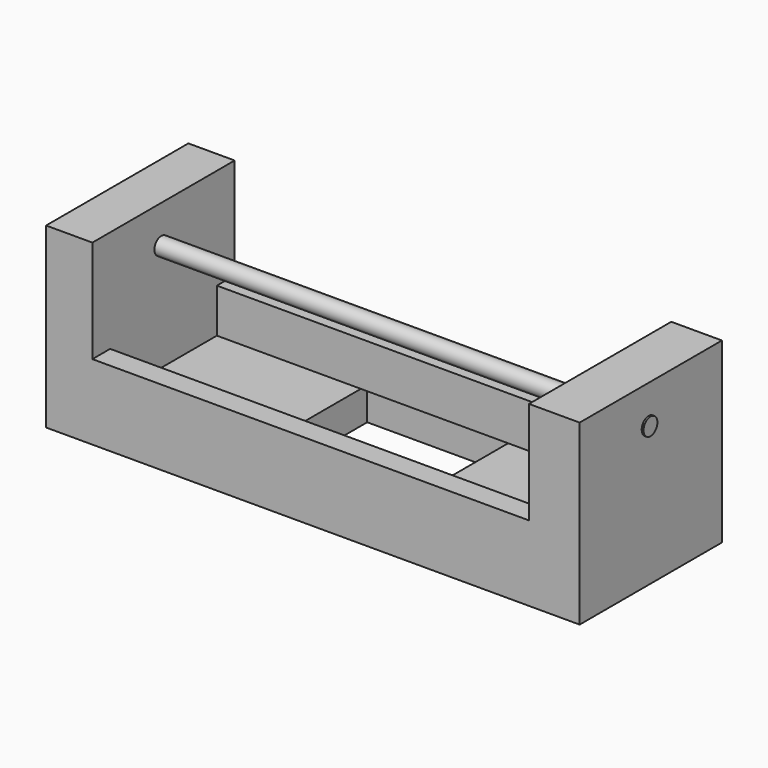
from build123d import *

# Parameters (mm, degrees)
F0_W      = 304.8
F0_H      = 101.6
F1_DEPTH  = 101.6
F2_W      = 249.4217529893
F2_H      = 82.9348426428
F3_DEPTH  = 101.6
F4_W      = 84.1586701572
F4_H      = 76.750330627
F5_DEPTH  = 25.4
F6_W      = 249.4217529893
F6_H      = 24.3338234723
F7_DEPTH  = 12.7
F8_W      = 249.4217529893
F8_H      = 25.1633860171
F9_DEPTH  = 12.7
F10_R     = 4.9515094563
F11_DEPTH = 279.4


with BuildPart() as f1:
    # F0 (on Front) → F1 (new body)
    with BuildSketch(Plane.XZ):
        with Locations((3.8099996746, -38.9124708686)):
            Rectangle(F0_W, F0_H)
    extrude(amount=-F1_DEPTH)

    # F2 (on face) → F3 (cut)
    with BuildSketch(Plane.XZ):
        with Locations((2.5656633079, -29.57989219)):
            Rectangle(F2_W, F2_H)
    extrude(amount=-F3_DEPTH, mode=Mode.SUBTRACT)

    # F4 (on face) → F5 (cut)
    with BuildSketch(Plane(origin=(0, 0, -89.7124708686), x_dir=(1, 0, 0), z_dir=(0, 0, -1))):
        with Locations((2.1801721305, -55.0756640732)):
            Rectangle(F4_W, F4_H)
    extrude(amount=-F5_DEPTH, mode=Mode.SUBTRACT)

    # F6 (on face) → F7 (join)
    with BuildSketch(Plane.XZ):
        with Locations((2.5656633079, -58.8804017752)):
            Rectangle(F6_W, F6_H)
    extrude(amount=-F7_DEPTH)

    # F10 (on face) → F11 (join)
    with BuildSketch(Plane.YZ.offset(-122.1452131867)):
        with Locations((49.2728576064, -9.6970386803)):
            Circle(F10_R)
    extrude(amount=F11_DEPTH)


with BuildPart() as f9:
    # F8 (on face) → F9 (new body)
    with BuildSketch(Plane(origin=(0, 101.6, 0), x_dir=(-1, 0, 0), z_dir=(0, 1, 0))):
        with Locations((-2.5656633079, -58.4656205028)):
            Rectangle(F8_W, F8_H)
    extrude(amount=-F9_DEPTH)


solid = Compound([f1.part, f9.part])
